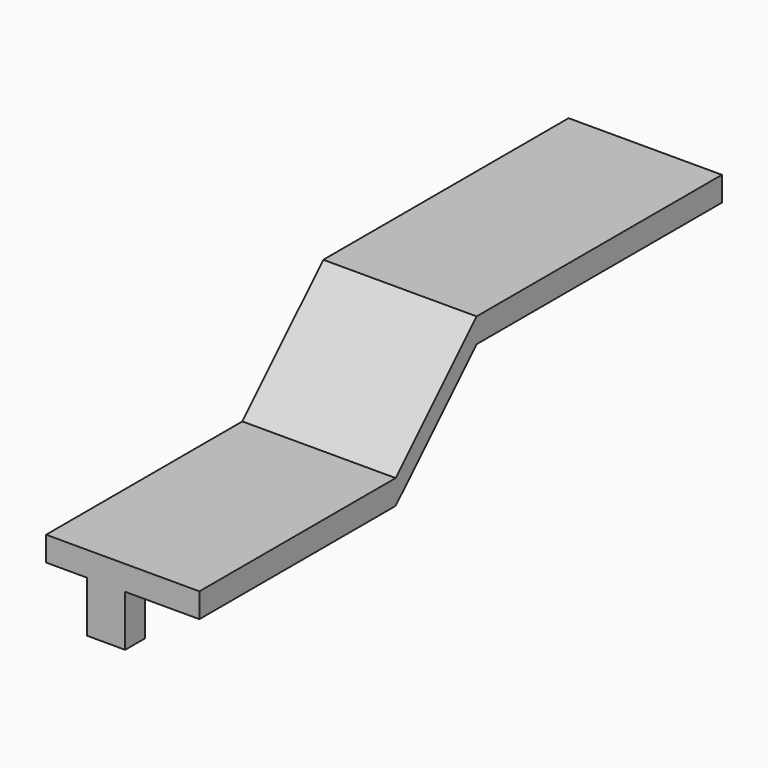
from build123d import *

# Parameters (mm, degrees)
CYLINDER003_R     = 5.8928
CYLINDER003_DEPTH = 2.032
SKETCH003_W       = 19.05
SKETCH003_H       = 30.48
PAD_DEPTH         = 3.048
PAD001_DEPTH      = 19.05
SKETCH005_W       = 4.7498
SKETCH005_H       = 3.048
PAD002_DEPTH      = 6.35


with BuildPart() as part:
    # Cylinder003 → Cylinder003 (new body)
    with BuildSketch(Plane(origin=(0, -38.1, 34.923527), x_dir=(1, 0, 0), z_dir=(0, 0, 1))):
        Circle(CYLINDER003_R)
    extrude(amount=CYLINDER003_DEPTH)

    # Sketch003 → Pad (new body)
    with BuildSketch(Plane(origin=(0, -38.1, 36.955527), x_dir=(1, 0, 0), z_dir=(0, 0, 1))):
        Rectangle(SKETCH003_W, SKETCH003_H)
    extrude(amount=PAD_DEPTH)

    # Sketch004 → Pad001 (new body)
    with BuildSketch(Plane(origin=(-9.525, -38.1, 34.923527), x_dir=(0, -1, 0), z_dir=(-1, 0, 0))):
        Polygon((-15.24, 5.08), (-27.812359, 17.652359), (-65.912359, 17.652359), (-65.912359, 14.604359), (-27.812359, 14.604359), (-15.24, 2.032), align=None)
    extrude(amount=-PAD001_DEPTH)

    # Sketch005 → Pad002 (new body)
    with BuildSketch(Plane(origin=(0, -38.1, 36.955527), x_dir=(1, 0, 0), z_dir=(0, 0, -1))):
        with Locations((-2.0701, 13.716)):
            Rectangle(SKETCH005_W, SKETCH005_H)
    extrude(amount=PAD002_DEPTH)


solid = part.part
